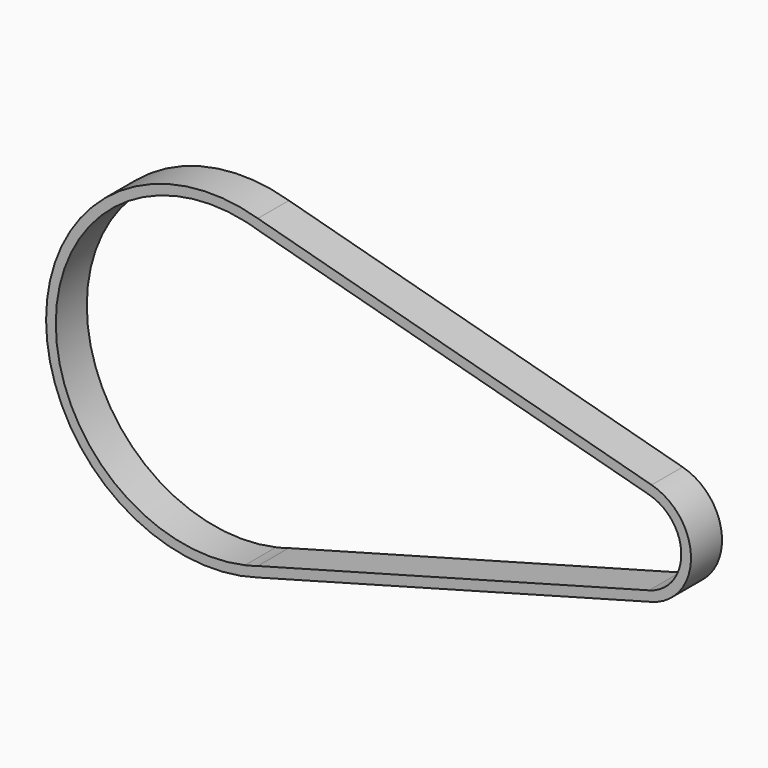
from build123d import *

# Parameters (mm, degrees)
F1_DEPTH = 12.7


with BuildPart() as f1:
    # F0 (on Front) → F1 (new body)
    with BuildSketch(Plane.XZ):
        with BuildLine():
            Line((53.090331, 16.856044), (-75.815843, 51.74453))
            ThreePointArc((-75.815843, 51.74453), (-145.146761, 0), (-75.815843, -51.74453))
            Line((-75.815843, -51.74453), (53.090331, -16.856044))
            ThreePointArc((53.090331, -16.856044), (65.990739, 0), (53.090331, 16.856044))
        make_face()
        with BuildLine():
            ThreePointArc((-80.031796, 49.563507), (-77.911563, 49.038833), (-75.815843, 48.423504))
            Line((-75.815843, 48.423504), (52.25767, 13.792172))
            ThreePointArc((52.25767, 13.792172), (62.815739, 0), (52.25767, -13.792172))
            Line((52.25767, -13.792172), (-75.815843, -48.423504))
            ThreePointArc((-75.815843, -48.423504), (-77.911563, -49.038833), (-80.031796, -49.563507))
            ThreePointArc((-80.031796, -49.563507), (-141.971761, 0), (-80.031796, 49.563507))
        make_face(mode=Mode.SUBTRACT)
    extrude(amount=F1_DEPTH)


solid = f1.part
